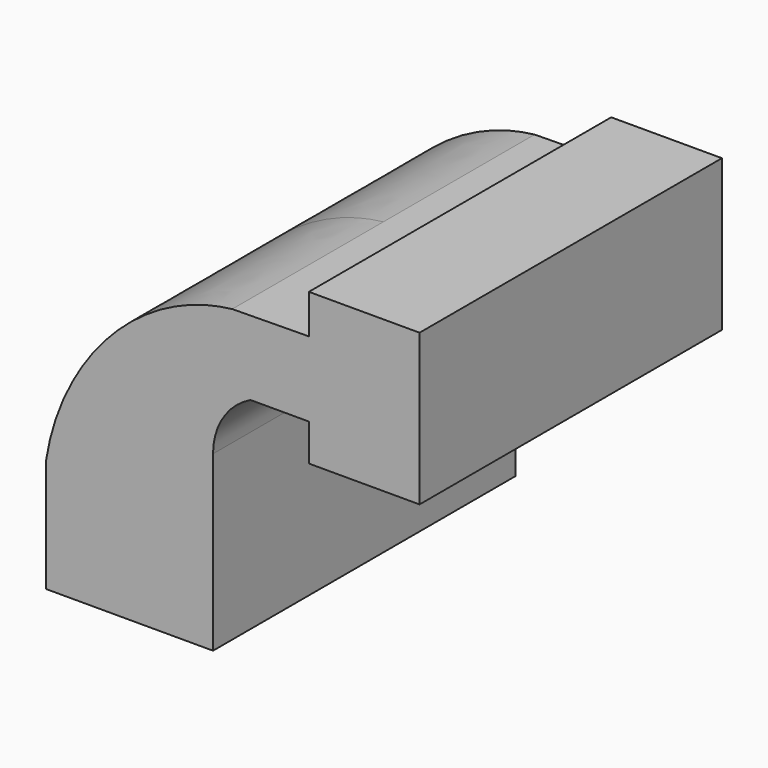
from build123d import *

# Parameters (mm, degrees)
F0_W     = 14.6442702601
F0_H     = 9.7821764648
F1_DEPTH = 50


with BuildPart() as f1:
    # F0 (on Front) → F1 (new body, symmetric)
    with BuildSketch(Plane.XZ):
        Polygon((-22.085782423, -15), (22.085782423, -15), (22.085782423, 15), (2.085782423, 15), (-22.085782423, 15), align=None)
        with BuildLine():
            Line((2.085782423, 15), (22.085782423, 15))
            Line((22.085782423, 15), (22.085782423, 30.8673362147))
            ThreePointArc((22.085782423, 30.8673362147), (24.7732717973, 40.1781822638), (32.0090020645, 46.6247829795))
            Line((32.0090020645, 46.6247829795), (47.4415121628, 46.6247829795))
            Line((47.4415121628, 46.6247829795), (47.4415121628, 66.4615726127))
            Line((47.4415121628, 66.4615726127), (27.1782313574, 66.235738383))
            ThreePointArc((27.1782313574, 66.235738383), (8.9960525893, 52.5500186218), (2.085782423, 30.8673362147))
            Line((2.085782423, 30.8673362147), (2.085782423, 15))
        make_face()
        with BuildLine():
            add(Edge.make_bspline(
                [(-22.085782423, 15), (-18.2595277169, 39.9524801473), (1.4944491306, 63.2745981713), (27.1782313574, 66.235738383)],
                knots=[0, 0, 0, 0, 71.0777316845, 71.0777316845, 71.0777316845, 71.0777316845], degree=3))
            Line((-22.085782423, 15), (2.085782423, 15))
            Line((2.085782423, 15), (2.085782423, 30.8673362147))
            ThreePointArc((2.085782423, 30.8673362147), (8.9960525893, 52.5500186218), (27.1782313574, 66.235738383))
        make_face()
        Polygon((62.085782423, 66.6247829795), (47.4415121628, 66.4615726127), (47.4415121628, 46.6247829795), (62.085782423, 46.6247829795), (62.085782423, 56.8426065147), align=None)
        Polygon((47.4415121628, 76.8426065147), (47.4415121628, 66.4615726127), (62.085782423, 66.6247829795), (62.085782423, 76.8426065147), align=None)
        with Locations((54.7636472929, 41.7336947471)):
            Rectangle(F0_W, F0_H)
        Polygon((62.085782423, 76.8426065147), (62.085782423, 66.6247829795), (62.085782423, 56.8426065147), (62.085782423, 46.6247829795), (62.085782423, 36.8426065147), (76.7300526831, 36.8426065147), (76.7300526831, 76.8426065147), align=None)
    extrude(amount=F1_DEPTH, both=True)


solid = f1.part
